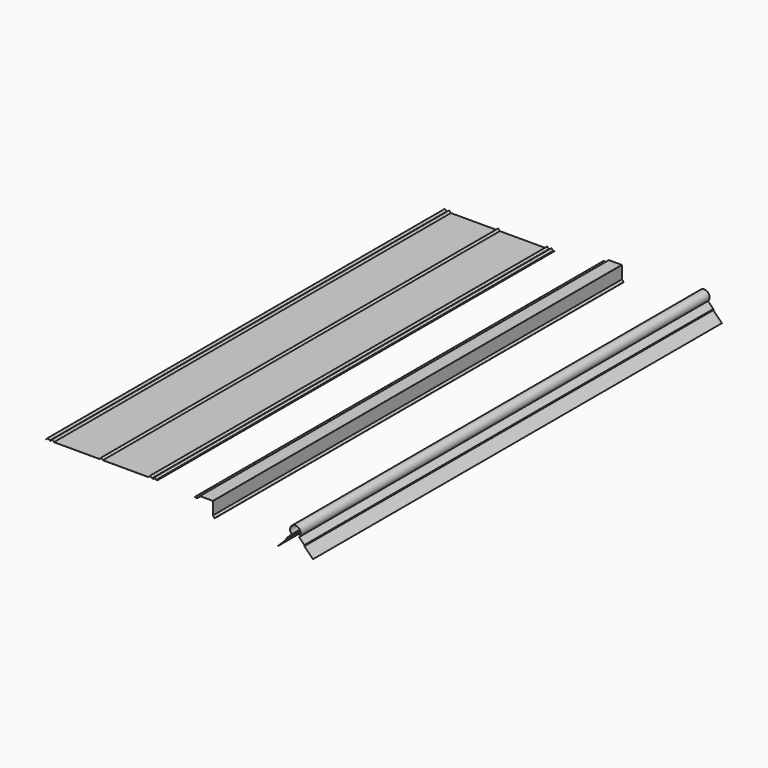
from build123d import *

# Parameters (mm, degrees)
F1_DEPTH = 2959.1
F2_DEPTH = 3048
F3_DEPTH = 3048


with BuildPart() as f1:
    # F0 (on Front) → F1 (new body)
    with BuildSketch(Plane.XZ):
        with BuildLine():
            Line((-1475.550572, 424.403133), (-1485.597445, 413.815938))
            ThreePointArc((-1485.597445, 413.815938), (-1485.681425, 413.757407), (-1485.78169, 413.73678))
            Line((-1485.78169, 413.73678), (-1486.478827, 413.73678))
            Line((-1486.478827, 413.73678), (-1486.478827, 413.37958))
            Line((-1486.478827, 413.37958), (-1485.628242, 413.37958))
            ThreePointArc((-1485.628242, 413.37958), (-1485.527978, 413.400207), (-1485.443997, 413.458738))
            Line((-1485.443997, 413.458738), (-1475.550572, 423.884232))
            ThreePointArc((-1475.550572, 423.884232), (-1475.366327, 423.96339), (-1475.182082, 423.884232))
            Line((-1475.182082, 423.884232), (-1465.288657, 413.458738))
            ThreePointArc((-1465.288657, 413.458738), (-1465.204677, 413.400207), (-1465.104412, 413.37958))
            Line((-1465.104412, 413.37958), (-1460.228242, 413.37958))
            ThreePointArc((-1460.228242, 413.37958), (-1460.127978, 413.400207), (-1460.043997, 413.458738))
            Line((-1460.043997, 413.458738), (-1450.150572, 423.884232))
            ThreePointArc((-1450.150572, 423.884232), (-1449.966327, 423.96339), (-1449.782082, 423.884232))
            Line((-1449.782082, 423.884232), (-1439.888657, 413.458738))
            ThreePointArc((-1439.888657, 413.458738), (-1439.804677, 413.400207), (-1439.704412, 413.37958))
            Line((-1439.704412, 413.37958), (-1168.128242, 413.37958))
            ThreePointArc((-1168.128242, 413.37958), (-1168.027978, 413.400207), (-1167.943997, 413.458738))
            Line((-1167.943997, 413.458738), (-1158.050572, 423.884232))
            ThreePointArc((-1158.050572, 423.884232), (-1157.866327, 423.96339), (-1157.682082, 423.884232))
            Line((-1157.682082, 423.884232), (-1147.788657, 413.458738))
            ThreePointArc((-1147.788657, 413.458738), (-1147.704677, 413.400207), (-1147.604412, 413.37958))
            Line((-1147.604412, 413.37958), (-876.028242, 413.37958))
            ThreePointArc((-876.028242, 413.37958), (-875.927978, 413.400207), (-875.843997, 413.458738))
            Line((-875.843997, 413.458738), (-865.950572, 423.884232))
            ThreePointArc((-865.950572, 423.884232), (-865.766327, 423.96339), (-865.582082, 423.884232))
            Line((-865.582082, 423.884232), (-855.688657, 413.458738))
            ThreePointArc((-855.688657, 413.458738), (-855.604677, 413.400207), (-855.504412, 413.37958))
            Line((-855.504412, 413.37958), (-845.061409, 413.37958))
            ThreePointArc((-845.061409, 413.37958), (-844.922473, 413.420947), (-844.828792, 413.531574))
            Line((-844.828792, 413.531574), (-840.408798, 423.611024))
            ThreePointArc((-840.408798, 423.611024), (-840.219898, 423.759227), (-839.991935, 423.683859))
            Line((-839.991935, 423.683859), (-830.288657, 413.458738))
            ThreePointArc((-830.288657, 413.458738), (-830.204677, 413.400207), (-830.104412, 413.37958))
            Line((-830.104412, 413.37958), (-822.903827, 413.37958))
            Line((-822.903827, 413.37958), (-822.903827, 413.73678))
            Line((-822.903827, 413.73678), (-829.950964, 413.73678))
            ThreePointArc((-829.950964, 413.73678), (-830.051229, 413.757407), (-830.135209, 413.815938))
            Line((-830.135209, 413.815938), (-840.10306, 424.319861))
            ThreePointArc((-840.10306, 424.319861), (-840.331023, 424.395228), (-840.519922, 424.247025))
            Line((-840.519922, 424.247025), (-845.062176, 413.888774))
            ThreePointArc((-845.062176, 413.888774), (-845.155857, 413.778147), (-845.294793, 413.73678))
            Line((-845.294793, 413.73678), (-855.350964, 413.73678))
            ThreePointArc((-855.350964, 413.73678), (-855.451229, 413.757407), (-855.535209, 413.815938))
            Line((-855.535209, 413.815938), (-865.582082, 424.403133))
            ThreePointArc((-865.582082, 424.403133), (-865.766327, 424.482291), (-865.950572, 424.403133))
            Line((-865.950572, 424.403133), (-875.997445, 413.815938))
            ThreePointArc((-875.997445, 413.815938), (-876.081425, 413.757407), (-876.18169, 413.73678))
            Line((-876.18169, 413.73678), (-1147.450964, 413.73678))
            ThreePointArc((-1147.450964, 413.73678), (-1147.551229, 413.757407), (-1147.635209, 413.815938))
            Line((-1147.635209, 413.815938), (-1157.682082, 424.403133))
            ThreePointArc((-1157.682082, 424.403133), (-1157.866327, 424.482291), (-1158.050572, 424.403133))
            Line((-1158.050572, 424.403133), (-1168.097445, 413.815938))
            ThreePointArc((-1168.097445, 413.815938), (-1168.181425, 413.757407), (-1168.28169, 413.73678))
            Line((-1168.28169, 413.73678), (-1439.550964, 413.73678))
            ThreePointArc((-1439.550964, 413.73678), (-1439.651229, 413.757407), (-1439.735209, 413.815938))
            Line((-1439.735209, 413.815938), (-1449.782082, 424.403133))
            ThreePointArc((-1449.782082, 424.403133), (-1449.966327, 424.482291), (-1450.150572, 424.403133))
            Line((-1450.150572, 424.403133), (-1460.197445, 413.815938))
            ThreePointArc((-1460.197445, 413.815938), (-1460.281425, 413.757407), (-1460.38169, 413.73678))
            Line((-1460.38169, 413.73678), (-1464.950964, 413.73678))
            ThreePointArc((-1464.950964, 413.73678), (-1465.051229, 413.757407), (-1465.135209, 413.815938))
            Line((-1465.135209, 413.815938), (-1475.182082, 424.403133))
            ThreePointArc((-1475.182082, 424.403133), (-1475.366327, 424.482291), (-1475.550572, 424.403133))
        make_face()
    extrude(amount=-F1_DEPTH)


with BuildPart() as f2:
    # F0 (on Front) → F2 (new body)
    with BuildSketch(Plane.XZ):
        with BuildLine():
            ThreePointArc((22.629533, 390.750047), (22.55514, 390.928644), (22.628113, 391.107826))
            ThreePointArc((22.628113, 391.107826), (0, 445.12958), (-22.628113, 391.107826))
            ThreePointArc((-22.628113, 391.107826), (-22.55514, 390.928644), (-22.629533, 390.750047))
            Line((-22.629533, 390.750047), (-53.807142, 359.572438))
            ThreePointArc((-53.807142, 359.572438), (-53.862202, 359.490034), (-53.881537, 359.392833))
            Line((-53.881537, 359.392833), (-53.881537, 353.253253))
            ThreePointArc((-53.881537, 353.253253), (-53.900871, 353.156052), (-53.955932, 353.073648))
            Line((-53.955932, 353.073648), (-105.413388, 301.616192))
            Line((-105.413388, 301.616192), (-105.160809, 301.363613))
            Line((-105.160809, 301.363613), (-53.598731, 352.925691))
            ThreePointArc((-53.598731, 352.925691), (-53.543671, 353.008095), (-53.524337, 353.105296))
            Line((-53.524337, 353.105296), (-53.524337, 359.244876))
            ThreePointArc((-53.524337, 359.244876), (-53.505002, 359.342077), (-53.449942, 359.424481))
            Line((-53.449942, 359.424481), (-22.124969, 390.749453))
            ThreePointArc((-22.124969, 390.749453), (-22.050575, 390.929473), (-22.125556, 391.109248))
            ThreePointArc((-22.125556, 391.109248), (0, 444.77238), (22.125556, 391.109248))
            ThreePointArc((22.125556, 391.109248), (22.050575, 390.929473), (22.124969, 390.749453))
            Line((22.124969, 390.749453), (53.449942, 359.424481))
            ThreePointArc((53.449942, 359.424481), (53.505002, 359.342077), (53.524337, 359.244876))
            Line((53.524337, 359.244876), (53.524337, 353.105296))
            ThreePointArc((53.524337, 353.105296), (53.543671, 353.008095), (53.598731, 352.925691))
            Line((53.598731, 352.925691), (105.160809, 301.363613))
            Line((105.160809, 301.363613), (105.413388, 301.616192))
            Line((105.413388, 301.616192), (53.955932, 353.073648))
            ThreePointArc((53.955932, 353.073648), (53.900871, 353.156052), (53.881537, 353.253253))
            Line((53.881537, 353.253253), (53.881537, 359.392833))
            ThreePointArc((53.881537, 359.392833), (53.862202, 359.490034), (53.807142, 359.572438))
            Line((53.807142, 359.572438), (22.629533, 390.750047))
        make_face()
    extrude(amount=-F2_DEPTH)


with BuildPart() as f3:
    # F0 (on Front) → F3 (new body)
    with BuildSketch(Plane.XZ):
        with BuildLine():
            Line((-491.830728, 413.73678), (-568.607913, 413.73678))
            ThreePointArc((-568.607913, 413.73678), (-568.881302, 413.682399), (-569.11307, 413.527537))
            Line((-569.11307, 413.527537), (-584.514654, 398.125953))
            ThreePointArc((-584.514654, 398.125953), (-584.630538, 398.048522), (-584.767233, 398.021332))
            Line((-584.767233, 398.021332), (-599.269481, 398.021332))
            ThreePointArc((-599.269481, 398.021332), (-599.952251, 398.73476), (-599.20954, 399.385556))
            Line((-599.20954, 399.385556), (-587.772013, 398.378532))
            ThreePointArc((-587.772013, 398.378532), (-587.578437, 398.540779), (-587.740684, 398.734356))
            Line((-587.740684, 398.734356), (-599.178211, 399.74138))
            ThreePointArc((-599.178211, 399.74138), (-600.309107, 398.75044), (-599.269481, 397.664132))
            Line((-599.269481, 397.664132), (-584.767233, 397.664132))
            ThreePointArc((-584.767233, 397.664132), (-584.493844, 397.718512), (-584.262075, 397.873375))
            Line((-584.262075, 397.873375), (-568.860492, 413.274958))
            ThreePointArc((-568.860492, 413.274958), (-568.744608, 413.35239), (-568.607913, 413.37958))
            Line((-568.607913, 413.37958), (-491.830728, 413.37958))
            ThreePointArc((-491.830728, 413.37958), (-491.578149, 413.274958), (-491.473528, 413.02238))
            Line((-491.473528, 413.02238), (-491.473528, 337.832694))
            ThreePointArc((-491.473528, 337.832694), (-491.419147, 337.559305), (-491.264285, 337.327537))
            Line((-491.264285, 337.327537), (-480.994399, 327.057651))
            ThreePointArc((-480.994399, 327.057651), (-481.016073, 326.071887), (-481.999932, 326.136866))
            Line((-481.999932, 326.136866), (-489.34947, 334.907565))
            ThreePointArc((-489.34947, 334.907565), (-489.60111, 334.929715), (-489.623191, 334.678069))
            Line((-489.623191, 334.678069), (-482.273749, 325.907484))
            ThreePointArc((-482.273749, 325.907484), (-480.774802, 325.808485), (-480.741781, 327.310335))
            Line((-480.741781, 327.310335), (-491.011706, 337.580259))
            ThreePointArc((-491.011706, 337.580259), (-491.089137, 337.696143), (-491.116327, 337.832838))
            Line((-491.116327, 337.832838), (-491.116327, 413.02238))
            ThreePointArc((-491.116327, 413.02238), (-491.32557, 413.527537), (-491.830728, 413.73678))
        make_face()
    extrude(amount=-F3_DEPTH)


solid = Compound([f1.part, f2.part, f3.part])
